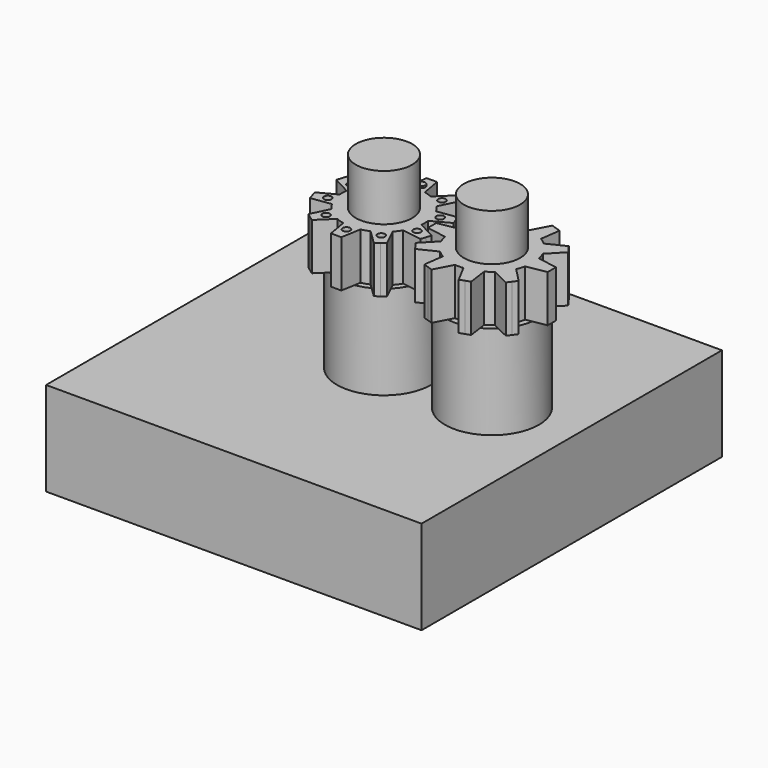
from build123d import *

# Parameters (mm, degrees)
F0_W      = 40
F0_H      = 40
F1_DEPTH  = 10
F2_R      = 5
F2_R_2    = 3
F3_DEPTH  = 10
F4_DEPTH  = 20
F5_DEPTH  = 20
F7_DEPTH  = 5
F9_DEPTH  = 5
F10_R     = 0.4
F11_DEPTH = 0.5
F12_DEPTH = 0.7


with BuildPart() as f1:
    # F0 (on Top) → F1 (new body)
    with BuildSketch(Plane.XY):
        Rectangle(F0_W, F0_H)
    extrude(amount=F1_DEPTH)

    # F2 (on face) → F3 (join)
    with BuildSketch(Plane.XY.offset(10)):
        Circle(F2_R)
        Circle(F2_R_2, mode=Mode.SUBTRACT)
        with Locations((11.5, 0)):
            Circle(F2_R)
        with Locations((11.5, 0)):
            Circle(F2_R_2, mode=Mode.SUBTRACT)
    extrude(amount=F3_DEPTH)


with BuildPart() as f4:
    # F4 (new): a face of the model
    f4_faces = [f1.part.faces().sort_by_distance(p)[0] for p in [
        (0, 0, 10),
    ]]
    extrude(f4_faces, amount=F4_DEPTH)

    # F6 (on face) → F7 (join)
    with BuildSketch(Plane.XY.offset(20)):
        with BuildLine():
            ThreePointArc((4.3520961314, -0.4470841785), (4.3692702809, -0.2238352351), (4.375, 0))
            ThreePointArc((4.375, 0), (4.3692702809, 0.2238352351), (4.3520961314, 0.4470841785))
            ThreePointArc((4.3520961314, 0.4470841785), (4.1608722588, 1.3519493504), (3.7837092182, 2.1963992243))
            ThreePointArc((3.7837092182, 2.1963992243), (3.5394493504, 2.5715604788), (3.2581302448, 2.919796621))
            ThreePointArc((3.2581302448, 2.919796621), (2.5715604788, 3.5394493504), (1.7700739871, 4.0009327763))
            ThreePointArc((1.7700739871, 4.0009327763), (1.3519493504, 4.1608722588), (0.9196693444, 4.2772459944))
            ThreePointArc((0.9196693444, 4.2772459944), (0, 4.375), (-0.9196693444, 4.2772459944))
            ThreePointArc((-0.9196693444, 4.2772459944), (-1.3519493504, 4.1608722588), (-1.7700739871, 4.0009327763))
            ThreePointArc((-1.7700739871, 4.0009327763), (-2.5715604788, 3.5394493504), (-3.2581302448, 2.919796621))
            ThreePointArc((-3.2581302448, 2.919796621), (-3.5394493504, 2.5715604788), (-3.7837092182, 2.1963992243))
            ThreePointArc((-3.7837092182, 2.1963992243), (-4.1608722588, 1.3519493504), (-4.3520961314, 0.4470841785))
            ThreePointArc((-4.3520961314, 0.4470841785), (-4.375, 0), (-4.3520961314, -0.4470841785))
            ThreePointArc((-4.3520961314, -0.4470841785), (-4.1608722588, -1.3519493504), (-3.7837092182, -2.1963992243))
            ThreePointArc((-3.7837092182, -2.1963992243), (-3.5394493504, -2.5715604788), (-3.2581302448, -2.919796621))
            ThreePointArc((-3.2581302448, -2.919796621), (-2.5715604788, -3.5394493504), (-1.7700739871, -4.0009327763))
            ThreePointArc((-1.7700739871, -4.0009327763), (-1.3519493504, -4.1608722588), (-0.9196693444, -4.2772459944))
            ThreePointArc((-0.9196693444, -4.2772459944), (0, -4.375), (0.9196693444, -4.2772459944))
            ThreePointArc((0.9196693444, -4.2772459944), (1.3519493504, -4.1608722588), (1.7700739871, -4.0009327763))
            ThreePointArc((1.7700739871, -4.0009327763), (2.5715604788, -3.5394493504), (3.2581302448, -2.919796621))
            ThreePointArc((3.2581302448, -2.919796621), (3.5394493504, -2.5715604788), (3.7837092182, -2.1963992243))
            ThreePointArc((3.7837092182, -2.1963992243), (4.1608722588, -1.3519493504), (4.3520961314, -0.4470841785))
        make_face()
        with BuildLine():
            ThreePointArc((3.7837092182, 2.1963992243), (4.1608722588, 1.3519493504), (4.3520961314, 0.4470841785))
            Line((4.3520961314, 0.4470841785), (6.2328762573, 1.4471127103))
            Line((6.2328762573, 1.4471127103), (6.0629852914, 1.9699833391))
            Line((6.0629852914, 1.9699833391), (5.8930943255, 2.492853968))
            Line((5.8930943255, 2.492853968), (3.7837092182, 2.1963992243))
        make_face()
        with BuildLine():
            Line((6.2328762573, -1.4471127103), (4.3520961314, -0.4470841785))
            ThreePointArc((4.3520961314, -0.4470841785), (4.1608722588, -1.3519493504), (3.7837092182, -2.1963992243))
            Line((3.7837092182, -2.1963992243), (5.8930943255, -2.492853968))
            Line((5.8930943255, -2.492853968), (6.0629852914, -1.9699833391))
            Line((6.0629852914, -1.9699833391), (6.2328762573, -1.4471127103))
        make_face()
        with BuildLine():
            ThreePointArc((1.7700739871, 4.0009327763), (2.5715604788, 3.5394493504), (3.2581302448, 2.919796621))
            Line((3.2581302448, 2.919796621), (4.1919113064, 4.8343315188))
            Line((4.1919113064, 4.8343315188), (3.7471309834, 5.1574833391))
            Line((3.7471309834, 5.1574833391), (3.3023506603, 5.4806351595))
            Line((3.3023506603, 5.4806351595), (1.7700739871, 4.0009327763))
        make_face()
        with BuildLine():
            Line((4.1919113064, -4.8343315188), (3.2581302448, -2.919796621))
            ThreePointArc((3.2581302448, -2.919796621), (2.5715604788, -3.5394493504), (1.7700739871, -4.0009327763))
            Line((1.7700739871, -4.0009327763), (3.3023506603, -5.4806351595))
            Line((3.3023506603, -5.4806351595), (3.7471309834, -5.1574833391))
            Line((3.7471309834, -5.1574833391), (4.1919113064, -4.8343315188))
        make_face()
        with BuildLine():
            ThreePointArc((-0.9196693444, 4.2772459944), (0, 4.375), (0.9196693444, 4.2772459944))
            Line((0.9196693444, 4.2772459944), (0.5497787144, 6.375))
            Line((0.5497787144, 6.375), (0, 6.375))
            Line((0, 6.375), (-0.5497787144, 6.375))
            Line((-0.5497787144, 6.375), (-0.9196693444, 4.2772459944))
        make_face()
        with BuildLine():
            Line((0.5497787144, -6.375), (0.9196693444, -4.2772459944))
            ThreePointArc((0.9196693444, -4.2772459944), (0, -4.375), (-0.9196693444, -4.2772459944))
            Line((-0.9196693444, -4.2772459944), (-0.5497787144, -6.375))
            Line((-0.5497787144, -6.375), (0, -6.375))
            Line((0, -6.375), (0.5497787144, -6.375))
        make_face()
        with BuildLine():
            ThreePointArc((-3.2581302448, 2.919796621), (-2.5715604788, 3.5394493504), (-1.7700739871, 4.0009327763))
            Line((-1.7700739871, 4.0009327763), (-3.3023506603, 5.4806351595))
            Line((-3.3023506603, 5.4806351595), (-3.7471309834, 5.1574833391))
            Line((-3.7471309834, 5.1574833391), (-4.1919113064, 4.8343315188))
            Line((-4.1919113064, 4.8343315188), (-3.2581302448, 2.919796621))
        make_face()
        with BuildLine():
            Line((-3.3023506603, -5.4806351595), (-1.7700739871, -4.0009327763))
            ThreePointArc((-1.7700739871, -4.0009327763), (-2.5715604788, -3.5394493504), (-3.2581302448, -2.919796621))
            Line((-3.2581302448, -2.919796621), (-4.1919113064, -4.8343315188))
            Line((-4.1919113064, -4.8343315188), (-3.7471309834, -5.1574833391))
            Line((-3.7471309834, -5.1574833391), (-3.3023506603, -5.4806351595))
        make_face()
        with BuildLine():
            ThreePointArc((-4.3520961314, 0.4470841785), (-4.1608722588, 1.3519493504), (-3.7837092182, 2.1963992243))
            Line((-3.7837092182, 2.1963992243), (-5.8930943255, 2.492853968))
            Line((-5.8930943255, 2.492853968), (-6.0629852914, 1.9699833391))
            Line((-6.0629852914, 1.9699833391), (-6.2328762573, 1.4471127103))
            Line((-6.2328762573, 1.4471127103), (-4.3520961314, 0.4470841785))
        make_face()
        with BuildLine():
            Line((-5.8930943255, -2.492853968), (-3.7837092182, -2.1963992243))
            ThreePointArc((-3.7837092182, -2.1963992243), (-4.1608722588, -1.3519493504), (-4.3520961314, -0.4470841785))
            Line((-4.3520961314, -0.4470841785), (-6.2328762573, -1.4471127103))
            Line((-6.2328762573, -1.4471127103), (-6.0629852914, -1.9699833391))
            Line((-6.0629852914, -1.9699833391), (-5.8930943255, -2.492853968))
        make_face()
    extrude(amount=F7_DEPTH)

    # F10 (on face) → F11 (cut)
    with BuildSketch(Plane.XY.offset(25)):
        with Locations((0, 5)):
            Circle(F10_R)
        with Locations((-2.9389262615, 4.0450849719)):
            Circle(F10_R)
        with Locations((-4.7552825815, 1.5450849719)):
            Circle(F10_R)
        with Locations((-4.7552825815, -1.5450849719)):
            Circle(F10_R)
        with Locations((-2.9389262615, -4.0450849719)):
            Circle(F10_R)
        with Locations((0, -5)):
            Circle(F10_R)
        with Locations((2.9389262615, -4.0450849719)):
            Circle(F10_R)
        with Locations((4.7552825815, -1.5450849719)):
            Circle(F10_R)
        with Locations((4.7552825815, 1.5450849719)):
            Circle(F10_R)
        with Locations((2.9389262615, 4.0450849719)):
            Circle(F10_R)
    extrude(amount=-F11_DEPTH, mode=Mode.SUBTRACT)


with BuildPart() as f5:
    # F5 (new): a face of the model
    f5_faces = [f1.part.faces().sort_by_distance(p)[0] for p in [
        (11.5, 0, 10),
    ]]
    extrude(f5_faces, amount=F5_DEPTH)

    # F8 (on face) → F9 (join)
    with BuildSketch(Plane.XY.offset(20)):
        with BuildLine():
            ThreePointArc((15.7772459944, -0.9196693444), (15.8504928586, -0.4624250071), (15.875, 0))
            ThreePointArc((15.875, 0), (15.8504928586, 0.4624250071), (15.7772459944, 0.9196693444))
            ThreePointArc((15.7772459944, 0.9196693444), (15.6608722588, 1.3519493504), (15.5009327763, 1.7700739871))
            ThreePointArc((15.5009327763, 1.7700739871), (15.0394493504, 2.5715604788), (14.419796621, 3.2581302448))
            ThreePointArc((14.419796621, 3.2581302448), (14.0715604788, 3.5394493504), (13.6963992243, 3.7837092182))
            ThreePointArc((13.6963992243, 3.7837092182), (12.8519493504, 4.1608722588), (11.9470841785, 4.3520961314))
            ThreePointArc((11.9470841785, 4.3520961314), (11.5, 4.375), (11.0529158215, 4.3520961314))
            ThreePointArc((11.0529158215, 4.3520961314), (10.1480506496, 4.1608722588), (9.3036007757, 3.7837092182))
            ThreePointArc((9.3036007757, 3.7837092182), (8.9284395212, 3.5394493504), (8.580203379, 3.2581302448))
            ThreePointArc((8.580203379, 3.2581302448), (7.9605506496, 2.5715604788), (7.4990672237, 1.7700739871))
            ThreePointArc((7.4990672237, 1.7700739871), (7.3391277412, 1.3519493504), (7.2227540056, 0.9196693444))
            ThreePointArc((7.2227540056, 0.9196693444), (7.125, 0), (7.2227540056, -0.9196693444))
            ThreePointArc((7.2227540056, -0.9196693444), (7.3391277412, -1.3519493504), (7.4990672237, -1.7700739871))
            ThreePointArc((7.4990672237, -1.7700739871), (7.9605506496, -2.5715604788), (8.580203379, -3.2581302448))
            ThreePointArc((8.580203379, -3.2581302448), (8.9284395212, -3.5394493504), (9.3036007757, -3.7837092182))
            ThreePointArc((9.3036007757, -3.7837092182), (10.1480506496, -4.1608722588), (11.0529158215, -4.3520961314))
            ThreePointArc((11.0529158215, -4.3520961314), (11.5, -4.375), (11.9470841785, -4.3520961314))
            ThreePointArc((11.9470841785, -4.3520961314), (12.8519493504, -4.1608722588), (13.6963992243, -3.7837092182))
            ThreePointArc((13.6963992243, -3.7837092182), (14.0715604788, -3.5394493504), (14.419796621, -3.2581302448))
            ThreePointArc((14.419796621, -3.2581302448), (15.0394493504, -2.5715604788), (15.5009327763, -1.7700739871))
            ThreePointArc((15.5009327763, -1.7700739871), (15.6608722588, -1.3519493504), (15.7772459944, -0.9196693444))
        make_face()
        with BuildLine():
            ThreePointArc((15.7772459944, 0.9196693444), (15.8504928586, 0.4624250071), (15.875, 0))
            ThreePointArc((15.875, 0), (15.8504928586, -0.4624250071), (15.7772459944, -0.9196693444))
            Line((15.7772459944, -0.9196693444), (17.875, -0.5497787144))
            Line((17.875, -0.5497787144), (17.875, 0))
            Line((17.875, 0), (17.875, 0.5497787144))
            Line((17.875, 0.5497787144), (15.7772459944, 0.9196693444))
        make_face()
        with BuildLine():
            ThreePointArc((14.419796621, 3.2581302448), (15.0394493504, 2.5715604788), (15.5009327763, 1.7700739871))
            Line((15.5009327763, 1.7700739871), (16.9806351595, 3.3023506603))
            Line((16.9806351595, 3.3023506603), (16.6574833391, 3.7471309834))
            Line((16.6574833391, 3.7471309834), (16.3343315188, 4.1919113064))
            Line((16.3343315188, 4.1919113064), (14.419796621, 3.2581302448))
        make_face()
        with BuildLine():
            Line((16.9806351595, -3.3023506603), (15.5009327763, -1.7700739871))
            ThreePointArc((15.5009327763, -1.7700739871), (15.0394493504, -2.5715604788), (14.419796621, -3.2581302448))
            Line((14.419796621, -3.2581302448), (16.3343315188, -4.1919113064))
            Line((16.3343315188, -4.1919113064), (16.6574833391, -3.7471309834))
            Line((16.6574833391, -3.7471309834), (16.9806351595, -3.3023506603))
        make_face()
        with BuildLine():
            ThreePointArc((11.9470841785, 4.3520961314), (12.8519493504, 4.1608722588), (13.6963992243, 3.7837092182))
            Line((13.6963992243, 3.7837092182), (13.992853968, 5.8930943255))
            Line((13.992853968, 5.8930943255), (13.4699833391, 6.0629852914))
            Line((13.4699833391, 6.0629852914), (12.9471127103, 6.2328762573))
            Line((12.9471127103, 6.2328762573), (11.9470841785, 4.3520961314))
        make_face()
        with BuildLine():
            Line((13.992853968, -5.8930943255), (13.6963992243, -3.7837092182))
            ThreePointArc((13.6963992243, -3.7837092182), (12.8519493504, -4.1608722588), (11.9470841785, -4.3520961314))
            Line((11.9470841785, -4.3520961314), (12.9471127103, -6.2328762573))
            Line((12.9471127103, -6.2328762573), (13.4699833391, -6.0629852914))
            Line((13.4699833391, -6.0629852914), (13.992853968, -5.8930943255))
        make_face()
        with BuildLine():
            ThreePointArc((9.3036007757, 3.7837092182), (10.1480506496, 4.1608722588), (11.0529158215, 4.3520961314))
            Line((11.0529158215, 4.3520961314), (10.0528872897, 6.2328762573))
            Line((10.0528872897, 6.2328762573), (9.5300166609, 6.0629852914))
            Line((9.5300166609, 6.0629852914), (9.007146032, 5.8930943255))
            Line((9.007146032, 5.8930943255), (9.3036007757, 3.7837092182))
        make_face()
        with BuildLine():
            Line((10.0528872897, -6.2328762573), (11.0529158215, -4.3520961314))
            ThreePointArc((11.0529158215, -4.3520961314), (10.1480506496, -4.1608722588), (9.3036007757, -3.7837092182))
            Line((9.3036007757, -3.7837092182), (9.007146032, -5.8930943255))
            Line((9.007146032, -5.8930943255), (9.5300166609, -6.0629852914))
            Line((9.5300166609, -6.0629852914), (10.0528872897, -6.2328762573))
        make_face()
        with BuildLine():
            ThreePointArc((7.4990672237, 1.7700739871), (7.9605506496, 2.5715604788), (8.580203379, 3.2581302448))
            Line((8.580203379, 3.2581302448), (6.6656684812, 4.1919113064))
            Line((6.6656684812, 4.1919113064), (6.3425166609, 3.7471309834))
            Line((6.3425166609, 3.7471309834), (6.0193648405, 3.3023506603))
            Line((6.0193648405, 3.3023506603), (7.4990672237, 1.7700739871))
        make_face()
        with BuildLine():
            Line((6.6656684812, -4.1919113064), (8.580203379, -3.2581302448))
            ThreePointArc((8.580203379, -3.2581302448), (7.9605506496, -2.5715604788), (7.4990672237, -1.7700739871))
            Line((7.4990672237, -1.7700739871), (6.0193648405, -3.3023506603))
            Line((6.0193648405, -3.3023506603), (6.3425166609, -3.7471309834))
            Line((6.3425166609, -3.7471309834), (6.6656684812, -4.1919113064))
        make_face()
        with BuildLine():
            ThreePointArc((7.2227540056, -0.9196693444), (7.125, 0), (7.2227540056, 0.9196693444))
            Line((7.2227540056, 0.9196693444), (5.125, 0.5497787144))
            Line((5.125, 0.5497787144), (5.125, 0))
            Line((5.125, 0), (5.125, -0.5497787144))
            Line((5.125, -0.5497787144), (7.2227540056, -0.9196693444))
        make_face()
    extrude(amount=F9_DEPTH)


with BuildPart() as f12:
    # F12 (new): a face of the model
    f12_faces = [f4.part.faces().sort_by_distance(p)[0] for p in [
        (0, 5, 24.5),
    ]]
    extrude(f12_faces, amount=F12_DEPTH)


solid = Compound([f1.part, f4.part, f5.part, f12.part])
